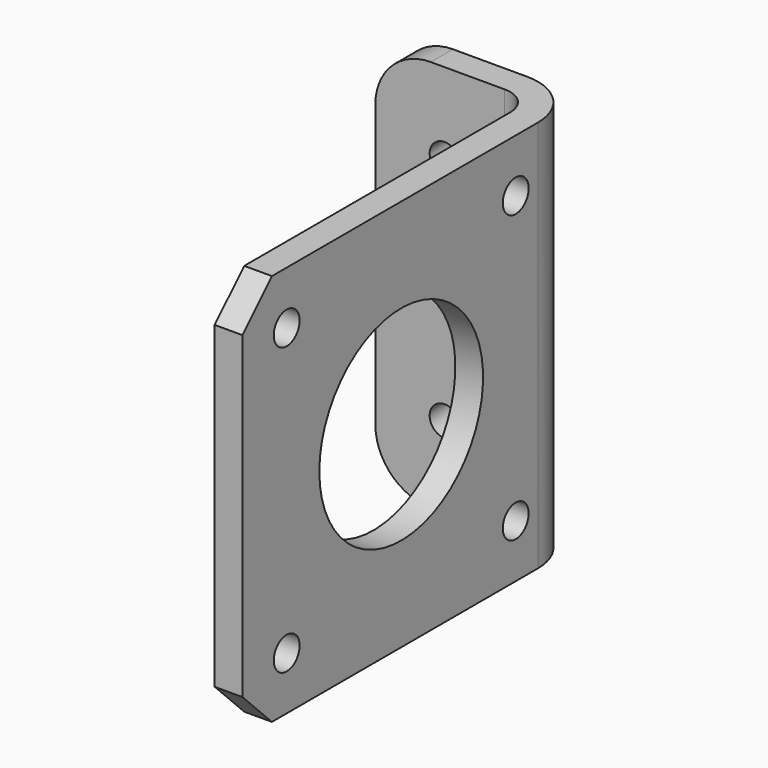
from build123d import *

# Parameters (mm, degrees)
PAD_DEPTH       = 42.5
FILLET_R        = 6
SKETCH001_R     = 1.62
POCKET_DEPTH    = 5
CHAMFER_SIZE    = 4
SKETCH002_R     = 11.08
SKETCH002_R_2   = 1.75
POCKET001_DEPTH = 5
FILLET001_R     = 3
FILLET002_R     = 6


with BuildPart() as part:
    # Sketch → Pad (new body)
    with BuildSketch(Plane.XY):
        Polygon((-20, 0), (0, 0), (0, -46), (-3, -46), (-3, -3), (-20, -3), align=None)
    extrude(amount=PAD_DEPTH)

    # Fillet
    fillet_edges = [part.edges().sort_by_distance(p)[0] for p in [
        (-20, -1.5, 0),
        (-20, -1.5, 42.5),
    ]]
    fillet(fillet_edges, radius=FILLET_R)

    # Sketch001 → Pocket (cut)
    with BuildSketch(Plane.XZ.offset(3)):
        with Locations((-12.5, 33.75)):
            Circle(SKETCH001_R)
        with Locations((-12.5, 8.75)):
            Circle(SKETCH001_R)
    extrude(amount=-POCKET_DEPTH, mode=Mode.SUBTRACT)

    # Chamfer
    chamfer_edges = [part.edges().sort_by_distance(p)[0] for p in [
        (-1.5, -46, 0),
        (-1.5, -46, 42.5),
    ]]
    chamfer(chamfer_edges, length=CHAMFER_SIZE)

    # Sketch002 → Pocket001 (cut)
    with BuildSketch(Plane(origin=(-3, 0, 0), x_dir=(0, -1, 0), z_dir=(-1, 0, 0))):
        with Locations((24.5, 21.25)):
            Circle(SKETCH002_R)
        with Locations((9, 36.75)):
            Circle(SKETCH002_R_2)
        with Locations((40, 36.75)):
            Circle(SKETCH002_R_2)
        with Locations((9, 5.75)):
            Circle(SKETCH002_R_2)
        with Locations((40, 5.75)):
            Circle(SKETCH002_R_2)
    extrude(amount=-POCKET001_DEPTH, mode=Mode.SUBTRACT)

    # Fillet001
    fillet001_edges = [part.edges().sort_by_distance(p)[0] for p in [
        (-3, -3, 21.25),
    ]]
    fillet(fillet001_edges, radius=FILLET001_R)

    # Fillet002
    fillet002_edges = [part.edges().sort_by_distance(p)[0] for p in [
        (0, 0, 21.25),
    ]]
    fillet(fillet002_edges, radius=FILLET002_R)


solid = part.part
